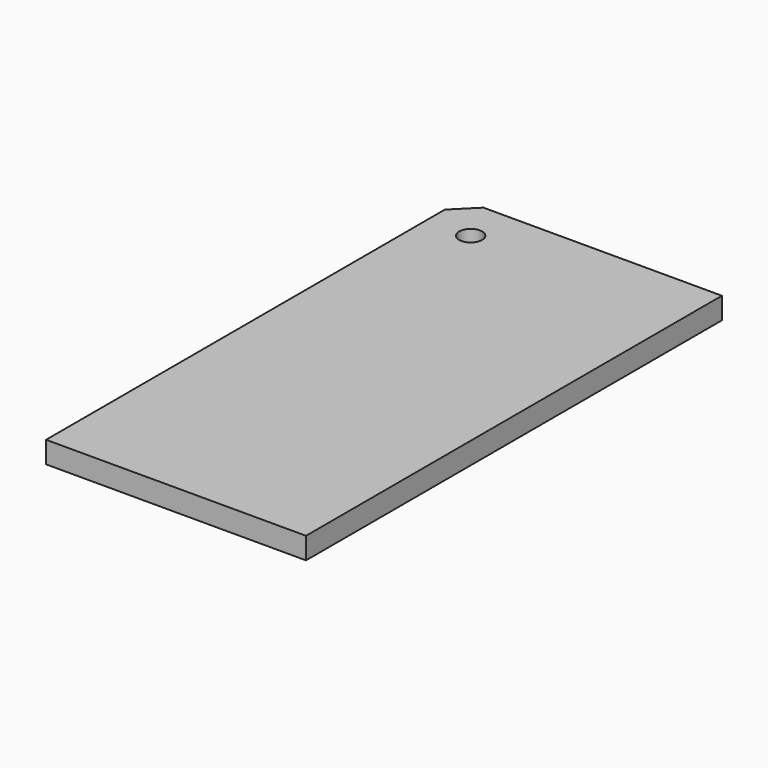
from build123d import *

# Parameters (mm, degrees)
F1_DEPTH = 6.35
F3_D     = 6.7564


with BuildPart() as f1:
    # F0 (on Top) → F1 (new body)
    with BuildSketch(Plane.XY):
        Polygon((38.1, 76.2), (-31.8138207153, 76.2), (-38.1, 69.9138207153), (-38.1, -76.2), (38.1, -76.2), align=None)
    extrude(amount=F1_DEPTH)

    # F3 (through all)
    with Locations(Plane.XY.offset(6.35)):
        with Locations((-25.4, 63.5)):
            Hole(F3_D / 2)


solid = f1.part
